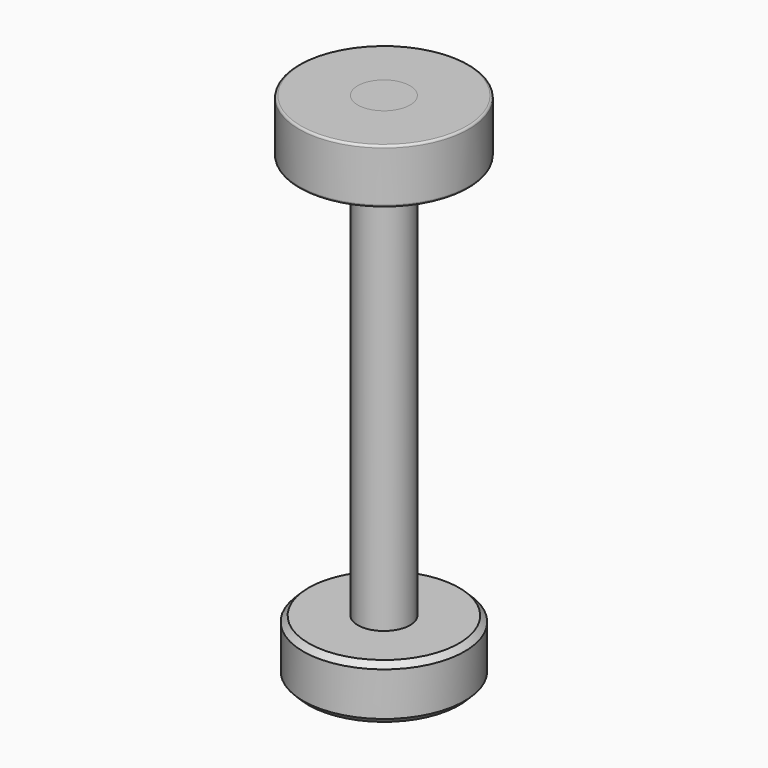
from build123d import *

# Parameters (mm, degrees)
F2_SIZE = 0.5
F0_W    = 5.4
F0_H    = 5
F4_R    = 0.2


with BuildPart() as f1:
    # F0 (on Front) → F1 (revolve)
    with BuildSketch(Plane.XZ):
        Polygon((-7.4, 0), (0, 0), (0, 47), (-2.4, 47), (-2.4, 42), (-2.4, 5), (-7.4, 5), align=None)
    revolve(axis=Axis((0, 0, 23.5), (0, 0, -1)))

    # F2
    f2_edges = [f1.edges().sort_by_distance(p)[0] for p in [
        (7.4, 0, 5),
        (7.4, 0, 0),
    ]]
    chamfer(f2_edges, length=F2_SIZE)


with BuildPart() as f3:
    # F0 (on Front) → F3 (revolve)
    with BuildSketch(Plane.XZ):
        with Locations((-5.1, 44.5)):
            Rectangle(F0_W, F0_H)
    revolve(axis=Axis((0, 0, 23.5), (0, 0, -1)))

    # F4
    f4_edges = [f3.edges().sort_by_distance(p)[0] for p in [
        (7.8, 0, 47),
        (7.8, 0, 42),
    ]]
    fillet(f4_edges, radius=F4_R)


solid = Compound([f1.part, f3.part])
